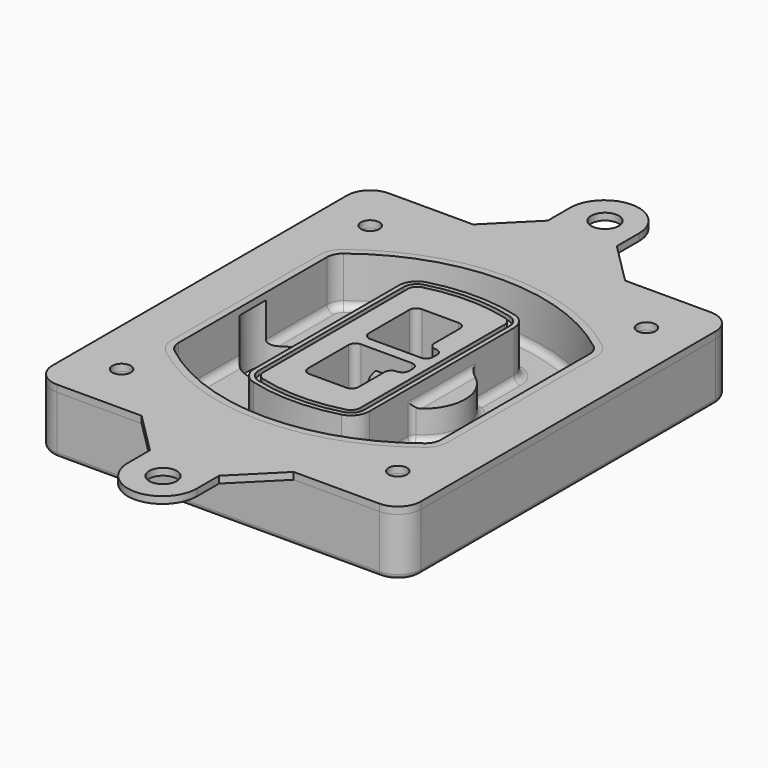
from build123d import *

# Parameters (mm, degrees)
F0_R      = 4
F1_DEPTH  = 25
F2_DEPTH  = 3
F3_DEPTH  = 18
F5_DEPTH  = 21
F6_DEPTH  = 2
F8_DEPTH  = 20
F9_DEPTH  = 16
F10_DEPTH = 25
F7_R      = 6
F7_R_2    = 4
F11_DEPTH = 6
F13_DEPTH = 9
F14_R     = 3
F15_R     = 2
F16_R     = 6
F16_R_2   = 4
F17_DEPTH = 3


with BuildPart() as f1:
    # F0 (on Top) → F1 (new body)
    with BuildSketch(Plane.XY):
        with BuildLine():
            ThreePointArc((-80, -80), (-77.0710678119, -87.0710678119), (-70, -90))
            Line((-70, -90), (70, -90))
            ThreePointArc((70, -90), (77.0710678119, -87.0710678119), (80, -80))
            Line((80, -80), (80, 80))
            ThreePointArc((80, 80), (77.0710678119, 87.0710678119), (70, 90))
            Line((70, 90), (-70, 90))
            ThreePointArc((-70, 90), (-77.0710678119, 87.0710678119), (-80, 80))
            Line((-80, 80), (-80, -80))
        make_face()
        with Locations((-60, -67.5)):
            Circle(F0_R, mode=Mode.SUBTRACT)
        with Locations((60, -67.5)):
            Circle(F0_R, mode=Mode.SUBTRACT)
        with Locations((-60, 67.5)):
            Circle(F0_R, mode=Mode.SUBTRACT)
        with BuildLine():
            ThreePointArc((-64, 40.2934422872), (-62.5820384798, 46.4328484224), (-58.6153846154, 51.3286200352))
            ThreePointArc((-58.6153846154, 51.3286200352), (0, 71.5), (58.6153846154, 51.3286200352))
            ThreePointArc((58.6153846154, 51.3286200352), (62.5820384798, 46.4328484224), (64, 40.2934422872))
            Line((64, 40.2934422872), (64, -40.2934422872))
            ThreePointArc((64, -40.2934422872), (62.5820384798, -46.4328484224), (58.6153846154, -51.3286200352))
            ThreePointArc((58.6153846154, -51.3286200352), (0, -71.5), (-58.6153846154, -51.3286200352))
            ThreePointArc((-58.6153846154, -51.3286200352), (-62.5820384798, -46.4328484224), (-64, -40.2934422872))
            Line((-64, -40.2934422872), (-64, 40.2934422872))
        make_face(mode=Mode.SUBTRACT)
        with Locations((60, 67.5)):
            Circle(F0_R, mode=Mode.SUBTRACT)
        with BuildLine():
            ThreePointArc((58.6153846154, 51.3286200352), (0, 71.5), (-58.6153846154, 51.3286200352))
            ThreePointArc((-58.6153846154, 51.3286200352), (-62.5820384798, 46.4328484224), (-64, 40.2934422872))
            Line((-64, 40.2934422872), (-64, -40.2934422872))
            ThreePointArc((-64, -40.2934422872), (-62.5820384798, -46.4328484224), (-58.6153846154, -51.3286200352))
            ThreePointArc((-58.6153846154, -51.3286200352), (0, -71.5), (58.6153846154, -51.3286200352))
            ThreePointArc((58.6153846154, -51.3286200352), (62.5820384798, -46.4328484224), (64, -40.2934422872))
            Line((64, -40.2934422872), (64, 40.2934422872))
            ThreePointArc((64, 40.2934422872), (62.5820384798, 46.4328484224), (58.6153846154, 51.3286200352))
        make_face()
        with BuildLine():
            Line((-60, -40.2934422872), (-60, 40.2934422872))
            ThreePointArc((-60, 40.2934422872), (-58.9871703427, 44.6787323838), (-56.1538461538, 48.1757121072))
            ThreePointArc((-56.1538461538, 48.1757121072), (0, 67.5), (56.1538461538, 48.1757121072))
            ThreePointArc((56.1538461538, 48.1757121072), (58.9871703427, 44.6787323838), (60, 40.2934422872))
            Line((60, 40.2934422872), (60, -40.2934422872))
            ThreePointArc((60, -40.2934422872), (58.9871703427, -44.6787323838), (56.1538461538, -48.1757121072))
            ThreePointArc((56.1538461538, -48.1757121072), (0, -67.5), (-56.1538461538, -48.1757121072))
            ThreePointArc((-56.1538461538, -48.1757121072), (-58.9871703427, -44.6787323838), (-60, -40.2934422872))
        make_face(mode=Mode.SUBTRACT)
        with BuildLine():
            ThreePointArc((-56.1538461538, 48.1757121072), (-58.9871703427, 44.6787323838), (-60, 40.2934422872))
            Line((-60, 40.2934422872), (-60, -40.2934422872))
            ThreePointArc((-60, -40.2934422872), (-58.9871703427, -44.6787323838), (-56.1538461538, -48.1757121072))
            ThreePointArc((-56.1538461538, -48.1757121072), (0, -67.5), (56.1538461538, -48.1757121072))
            ThreePointArc((56.1538461538, -48.1757121072), (58.9871703427, -44.6787323838), (60, -40.2934422872))
            Line((60, -40.2934422872), (60, 40.2934422872))
            ThreePointArc((60, 40.2934422872), (58.9871703427, 44.6787323838), (56.1538461538, 48.1757121072))
            ThreePointArc((56.1538461538, 48.1757121072), (0, 67.5), (-56.1538461538, 48.1757121072))
        make_face()
        with BuildLine():
            ThreePointArc((54.3076923077, 45.8110311612), (56.2910192399, 43.3631453548), (57, 40.2934422872))
            Line((57, 40.2934422872), (57, -40.2934422872))
            ThreePointArc((57, -40.2934422872), (56.2910192399, -43.3631453548), (54.3076923077, -45.8110311612))
            ThreePointArc((54.3076923077, -45.8110311612), (0, -64.5), (-54.3076923077, -45.8110311612))
            ThreePointArc((-54.3076923077, -45.8110311612), (-56.2910192399, -43.3631453548), (-57, -40.2934422872))
            Line((-57, -40.2934422872), (-57, 40.2934422872))
            ThreePointArc((-57, 40.2934422872), (-56.2910192399, 43.3631453548), (-54.3076923077, 45.8110311612))
            ThreePointArc((-54.3076923077, 45.8110311612), (0, 64.5), (54.3076923077, 45.8110311612))
        make_face(mode=Mode.SUBTRACT)
        with BuildLine():
            Line((57, -40.2934422872), (57, 40.2934422872))
            ThreePointArc((57, 40.2934422872), (56.2910192399, 43.3631453548), (54.3076923077, 45.8110311612))
            ThreePointArc((54.3076923077, 45.8110311612), (0, 64.5), (-54.3076923077, 45.8110311612))
            ThreePointArc((-54.3076923077, 45.8110311612), (-56.2910192399, 43.3631453548), (-57, 40.2934422872))
            Line((-57, 40.2934422872), (-57, -40.2934422872))
            ThreePointArc((-57, -40.2934422872), (-56.2910192399, -43.3631453548), (-54.3076923077, -45.8110311612))
            ThreePointArc((-54.3076923077, -45.8110311612), (0, -64.5), (54.3076923077, -45.8110311612))
            ThreePointArc((54.3076923077, -45.8110311612), (56.2910192399, -43.3631453548), (57, -40.2934422872))
        make_face()
    extrude(amount=-F1_DEPTH)

    # F0 (on Top) → F2 (join)
    with BuildSketch(Plane.XY):
        with BuildLine():
            ThreePointArc((-56.1538461538, 48.1757121072), (-58.9871703427, 44.6787323838), (-60, 40.2934422872))
            Line((-60, 40.2934422872), (-60, -40.2934422872))
            ThreePointArc((-60, -40.2934422872), (-58.9871703427, -44.6787323838), (-56.1538461538, -48.1757121072))
            ThreePointArc((-56.1538461538, -48.1757121072), (0, -67.5), (56.1538461538, -48.1757121072))
            ThreePointArc((56.1538461538, -48.1757121072), (58.9871703427, -44.6787323838), (60, -40.2934422872))
            Line((60, -40.2934422872), (60, 40.2934422872))
            ThreePointArc((60, 40.2934422872), (58.9871703427, 44.6787323838), (56.1538461538, 48.1757121072))
            ThreePointArc((56.1538461538, 48.1757121072), (0, 67.5), (-56.1538461538, 48.1757121072))
        make_face()
        with BuildLine():
            ThreePointArc((54.3076923077, 45.8110311612), (56.2910192399, 43.3631453548), (57, 40.2934422872))
            Line((57, 40.2934422872), (57, -40.2934422872))
            ThreePointArc((57, -40.2934422872), (56.2910192399, -43.3631453548), (54.3076923077, -45.8110311612))
            ThreePointArc((54.3076923077, -45.8110311612), (0, -64.5), (-54.3076923077, -45.8110311612))
            ThreePointArc((-54.3076923077, -45.8110311612), (-56.2910192399, -43.3631453548), (-57, -40.2934422872))
            Line((-57, -40.2934422872), (-57, 40.2934422872))
            ThreePointArc((-57, 40.2934422872), (-56.2910192399, 43.3631453548), (-54.3076923077, 45.8110311612))
            ThreePointArc((-54.3076923077, 45.8110311612), (0, 64.5), (54.3076923077, 45.8110311612))
        make_face(mode=Mode.SUBTRACT)
    extrude(amount=F2_DEPTH)

    # F0 (on Top) → F3 (cut)
    with BuildSketch(Plane.XY):
        with BuildLine():
            Line((57, -40.2934422872), (57, 40.2934422872))
            ThreePointArc((57, 40.2934422872), (56.2910192399, 43.3631453548), (54.3076923077, 45.8110311612))
            ThreePointArc((54.3076923077, 45.8110311612), (0, 64.5), (-54.3076923077, 45.8110311612))
            ThreePointArc((-54.3076923077, 45.8110311612), (-56.2910192399, 43.3631453548), (-57, 40.2934422872))
            Line((-57, 40.2934422872), (-57, -40.2934422872))
            ThreePointArc((-57, -40.2934422872), (-56.2910192399, -43.3631453548), (-54.3076923077, -45.8110311612))
            ThreePointArc((-54.3076923077, -45.8110311612), (0, -64.5), (54.3076923077, -45.8110311612))
            ThreePointArc((54.3076923077, -45.8110311612), (56.2910192399, -43.3631453548), (57, -40.2934422872))
        make_face()
    extrude(amount=-F3_DEPTH, mode=Mode.SUBTRACT)

    # F4 (on face) → F5 (join, through all)
    with BuildSketch(Plane.XY.offset(3)):
        with BuildLine():
            ThreePointArc((-25, -39.2465276821), (-23.3511545998, -44.1109737193), (-19.0842911877, -46.9702398883))
            ThreePointArc((-19.0842911877, -46.9702398883), (0, -49.5), (19.0842911877, -46.9702398883))
            ThreePointArc((19.0842911877, -46.9702398883), (23.3511545998, -44.1109737193), (25, -39.2465276821))
            Line((25, -39.2465276821), (25, 39.2465276821))
            ThreePointArc((25, 39.2465276821), (23.3511545998, 44.1109737193), (19.0842911877, 46.9702398883))
            ThreePointArc((19.0842911877, 46.9702398883), (0, 49.5), (-19.0842911877, 46.9702398883))
            ThreePointArc((-19.0842911877, 46.9702398883), (-23.3511545998, 44.1109737193), (-25, 39.2465276821))
            Line((-25, 39.2465276821), (-25, -39.2465276821))
        make_face()
        with BuildLine():
            ThreePointArc((18.5632183908, 45.0393118368), (21.7633659499, 42.89486221), (23, 39.2465276821))
            Line((23, 39.2465276821), (23, -39.2465276821))
            ThreePointArc((23, -39.2465276821), (21.7633659499, -42.89486221), (18.5632183908, -45.0393118368))
            ThreePointArc((18.5632183908, -45.0393118368), (0, -47.5), (-18.5632183908, -45.0393118368))
            ThreePointArc((-18.5632183908, -45.0393118368), (-21.7633659499, -42.89486221), (-23, -39.2465276821))
            Line((-23, -39.2465276821), (-23, 39.2465276821))
            ThreePointArc((-23, 39.2465276821), (-21.7633659499, 42.89486221), (-18.5632183908, 45.0393118368))
            ThreePointArc((-18.5632183908, 45.0393118368), (0, 47.5), (18.5632183908, 45.0393118368))
        make_face(mode=Mode.SUBTRACT)
        with BuildLine():
            Line((23, -39.2465276821), (23, 39.2465276821))
            ThreePointArc((23, 39.2465276821), (21.7633659499, 42.89486221), (18.5632183908, 45.0393118368))
            ThreePointArc((18.5632183908, 45.0393118368), (0, 47.5), (-18.5632183908, 45.0393118368))
            ThreePointArc((-18.5632183908, 45.0393118368), (-21.7633659499, 42.89486221), (-23, 39.2465276821))
            Line((-23, 39.2465276821), (-23, -39.2465276821))
            ThreePointArc((-23, -39.2465276821), (-21.7633659499, -42.89486221), (-18.5632183908, -45.0393118368))
            ThreePointArc((-18.5632183908, -45.0393118368), (0, -47.5), (18.5632183908, -45.0393118368))
            ThreePointArc((18.5632183908, -45.0393118368), (21.7633659499, -42.89486221), (23, -39.2465276821))
        make_face()
        with BuildLine():
            ThreePointArc((18.0421455939, 43.1083837852), (20.1755772999, 41.6787507007), (21, 39.2465276821))
            Line((21, 39.2465276821), (21, -39.2465276821))
            ThreePointArc((21, -39.2465276821), (20.1755772999, -41.6787507007), (18.0421455939, -43.1083837852))
            ThreePointArc((18.0421455939, -43.1083837852), (0, -45.5), (-18.0421455939, -43.1083837852))
            ThreePointArc((-18.0421455939, -43.1083837852), (-20.1755772999, -41.6787507007), (-21, -39.2465276821))
            Line((-21, -39.2465276821), (-21, 39.2465276821))
            ThreePointArc((-21, 39.2465276821), (-20.1755772999, 41.6787507007), (-18.0421455939, 43.1083837852))
            ThreePointArc((-18.0421455939, 43.1083837852), (0, 45.5), (18.0421455939, 43.1083837852))
        make_face(mode=Mode.SUBTRACT)
        with BuildLine():
            Line((21, -39.2465276821), (21, 39.2465276821))
            ThreePointArc((21, 39.2465276821), (20.1755772999, 41.6787507007), (18.0421455939, 43.1083837852))
            ThreePointArc((18.0421455939, 43.1083837852), (0, 45.5), (-18.0421455939, 43.1083837852))
            ThreePointArc((-18.0421455939, 43.1083837852), (-20.1755772999, 41.6787507007), (-21, 39.2465276821))
            Line((-21, 39.2465276821), (-21, -39.2465276821))
            ThreePointArc((-21, -39.2465276821), (-20.1755772999, -41.6787507007), (-18.0421455939, -43.1083837852))
            ThreePointArc((-18.0421455939, -43.1083837852), (0, -45.5), (18.0421455939, -43.1083837852))
            ThreePointArc((18.0421455939, -43.1083837852), (20.1755772999, -41.6787507007), (21, -39.2465276821))
        make_face()
        with BuildLine():
            Line((-8, -2.5), (14, -2.5))
            ThreePointArc((14, -2.5), (16.1213203436, -3.3786796564), (17, -5.5))
            Line((17, -5.5), (17, -7.5))
            ThreePointArc((17, -7.5), (16.1213203436, -9.6213203436), (14, -10.5))
            ThreePointArc((14, -10.5), (11.8786796564, -11.3786796564), (11, -13.5))
            Line((11, -13.5), (11, -27.5))
            ThreePointArc((11, -27.5), (10.1213203436, -29.6213203436), (8, -30.5))
            Line((8, -30.5), (-8, -30.5))
            ThreePointArc((-8, -30.5), (-10.1213203436, -29.6213203436), (-11, -27.5))
            Line((-11, -27.5), (-11, -5.5))
            ThreePointArc((-11, -5.5), (-10.1213203436, -3.3786796564), (-8, -2.5))
        make_face(mode=Mode.SUBTRACT)
        with BuildLine():
            ThreePointArc((-8, 2.5), (-10.1213203436, 3.3786796564), (-11, 5.5))
            Line((-11, 5.5), (-11, 27.5))
            ThreePointArc((-11, 27.5), (-10.1213203436, 29.6213203436), (-8, 30.5))
            Line((-8, 30.5), (8, 30.5))
            ThreePointArc((8, 30.5), (10.1213203436, 29.6213203436), (11, 27.5))
            Line((11, 27.5), (11, 13.5))
            ThreePointArc((11, 13.5), (11.8786796564, 11.3786796564), (14, 10.5))
            ThreePointArc((14, 10.5), (16.1213203436, 9.6213203436), (17, 7.5))
            Line((17, 7.5), (17, 5.5))
            ThreePointArc((17, 5.5), (16.1213203436, 3.3786796564), (14, 2.5))
            Line((14, 2.5), (-8, 2.5))
        make_face(mode=Mode.SUBTRACT)
    extrude(amount=-F5_DEPTH)

    # F4 (on face) → F6 (cut)
    with BuildSketch(Plane.XY.offset(3)):
        with BuildLine():
            Line((23, -39.2465276821), (23, 39.2465276821))
            ThreePointArc((23, 39.2465276821), (21.7633659499, 42.89486221), (18.5632183908, 45.0393118368))
            ThreePointArc((18.5632183908, 45.0393118368), (0, 47.5), (-18.5632183908, 45.0393118368))
            ThreePointArc((-18.5632183908, 45.0393118368), (-21.7633659499, 42.89486221), (-23, 39.2465276821))
            Line((-23, 39.2465276821), (-23, -39.2465276821))
            ThreePointArc((-23, -39.2465276821), (-21.7633659499, -42.89486221), (-18.5632183908, -45.0393118368))
            ThreePointArc((-18.5632183908, -45.0393118368), (0, -47.5), (18.5632183908, -45.0393118368))
            ThreePointArc((18.5632183908, -45.0393118368), (21.7633659499, -42.89486221), (23, -39.2465276821))
        make_face()
        with BuildLine():
            ThreePointArc((18.0421455939, 43.1083837852), (20.1755772999, 41.6787507007), (21, 39.2465276821))
            Line((21, 39.2465276821), (21, -39.2465276821))
            ThreePointArc((21, -39.2465276821), (20.1755772999, -41.6787507007), (18.0421455939, -43.1083837852))
            ThreePointArc((18.0421455939, -43.1083837852), (0, -45.5), (-18.0421455939, -43.1083837852))
            ThreePointArc((-18.0421455939, -43.1083837852), (-20.1755772999, -41.6787507007), (-21, -39.2465276821))
            Line((-21, -39.2465276821), (-21, 39.2465276821))
            ThreePointArc((-21, 39.2465276821), (-20.1755772999, 41.6787507007), (-18.0421455939, 43.1083837852))
            ThreePointArc((-18.0421455939, 43.1083837852), (0, 45.5), (18.0421455939, 43.1083837852))
        make_face(mode=Mode.SUBTRACT)
    extrude(amount=-F6_DEPTH, mode=Mode.SUBTRACT)

    # F7 (on face) → F8 (join)
    with BuildSketch(Plane(origin=(0, 0, -25), x_dir=(1, 0, 0), z_dir=(0, 0, -1))):
        with BuildLine():
            ThreePointArc((3.28842436, 0), (16.7567035675, 13.4682792075), (30.224982775, 0))
            Line((30.224982775, 0), (35.224982775, 0))
            ThreePointArc((35.224982775, 0), (16.7567035675, 18.4682792075), (-1.71157564, 0))
            Line((-1.71157564, 0), (3.28842436, 0))
        make_face()
        with BuildLine():
            Line((3.28842436, 0), (30.224982775, 0))
            ThreePointArc((30.224982775, 0), (16.7567035675, 13.4682792075), (3.28842436, 0))
        make_face()
        with BuildLine():
            ThreePointArc((3.28842436, 0), (16.7567035675, -13.4682792075), (30.224982775, 0))
            Line((30.224982775, 0), (3.28842436, 0))
        make_face()
        with BuildLine():
            Line((35.224982775, 0), (30.224982775, 0))
            ThreePointArc((30.224982775, 0), (16.7567035675, -13.4682792075), (3.28842436, 0))
            Line((3.28842436, 0), (-1.71157564, 0))
            ThreePointArc((-1.71157564, 0), (16.7567035675, -18.4682792075), (35.224982775, 0))
        make_face()
    extrude(amount=-F8_DEPTH)

    # F7 (on face) → F9 (cut)
    with BuildSketch(Plane(origin=(0, 0, -25), x_dir=(1, 0, 0), z_dir=(0, 0, -1))):
        with BuildLine():
            Line((3.28842436, 0), (30.224982775, 0))
            ThreePointArc((30.224982775, 0), (16.7567035675, 13.4682792075), (3.28842436, 0))
        make_face()
        with BuildLine():
            ThreePointArc((3.28842436, 0), (16.7567035675, -13.4682792075), (30.224982775, 0))
            Line((30.224982775, 0), (3.28842436, 0))
        make_face()
    extrude(amount=-F9_DEPTH, mode=Mode.SUBTRACT)

    # F7 (on face) → F10 (cut)
    with BuildSketch(Plane(origin=(0, 0, -25), x_dir=(1, 0, 0), z_dir=(0, 0, -1))):
        with BuildLine():
            Line((-59.0318229325, 0), (-32.0952645175, 0))
            ThreePointArc((-32.0952645175, 0), (-45.563543725, 13.4682792075), (-59.0318229325, 0))
        make_face()
        with BuildLine():
            ThreePointArc((-59.0318229325, 0), (-45.563543725, -13.4682792075), (-32.0952645175, 0))
            Line((-32.0952645175, 0), (-59.0318229325, 0))
        make_face()
    extrude(amount=-F10_DEPTH, mode=Mode.SUBTRACT)

    # F7 (on face) → F11 (cut)
    with BuildSketch(Plane(origin=(0, 0, -25), x_dir=(1, 0, 0), z_dir=(0, 0, -1))):
        with Locations((60, -67.5)):
            Circle(F7_R)
        with Locations((60, -67.5)):
            Circle(F7_R_2, mode=Mode.SUBTRACT)
        with Locations((60, -67.5)):
            Circle(F7_R)
        with Locations((60, -67.5)):
            Circle(F7_R_2, mode=Mode.SUBTRACT)
        with Locations((-60, -67.5)):
            Circle(F7_R)
        with Locations((-60, -67.5)):
            Circle(F7_R_2, mode=Mode.SUBTRACT)
        with Locations((-60, -67.5)):
            Circle(F7_R)
        with Locations((-60, -67.5)):
            Circle(F7_R_2, mode=Mode.SUBTRACT)
        with Locations((-60, 67.5)):
            Circle(F7_R)
        with Locations((-60, 67.5)):
            Circle(F7_R_2, mode=Mode.SUBTRACT)
        with Locations((-60, 67.5)):
            Circle(F7_R)
        with Locations((-60, 67.5)):
            Circle(F7_R_2, mode=Mode.SUBTRACT)
        with Locations((60, 67.5)):
            Circle(F7_R)
        with Locations((60, 67.5)):
            Circle(F7_R_2, mode=Mode.SUBTRACT)
        with Locations((60, 67.5)):
            Circle(F7_R)
        with Locations((60, 67.5)):
            Circle(F7_R_2, mode=Mode.SUBTRACT)
    extrude(amount=-F11_DEPTH, mode=Mode.SUBTRACT)

    # F12 (on face) → F13 (cut, through all)
    with BuildSketch(Plane(origin=(0, 0, -9), x_dir=(1, 0, 0), z_dir=(0, 0, -1))):
        with BuildLine():
            Line((11, 13.5), (11, 17.5481537753))
            ThreePointArc((11, 17.5481537753), (2.5696536419, 11.8239143813), (-1.5415842455, 2.5))
            Line((-1.5415842455, 2.5), (3.5224848595, 2.5))
            ThreePointArc((3.5224848595, 2.5), (6.1857188154, 8.3455872281), (11.2536447004, 12.2927168648))
            ThreePointArc((11.2536447004, 12.2927168648), (11.0640958889, 12.8831798879), (11, 13.5))
        make_face()
        with BuildLine():
            ThreePointArc((11.2536447004, -12.2927168648), (6.1857188154, -8.3455872281), (3.5224848595, -2.5))
            Line((3.5224848595, -2.5), (-1.5415842455, -2.5))
            ThreePointArc((-1.5415842455, -2.5), (2.5696536419, -11.8239143813), (11, -17.5481537753))
            Line((11, -17.5481537753), (11, -13.5))
            ThreePointArc((11, -13.5), (11.0640958889, -12.8831798879), (11.2536447004, -12.2927168648))
        make_face()
        with BuildLine():
            ThreePointArc((11.2536447004, 12.2927168648), (6.1857188154, 8.3455872281), (3.5224848595, 2.5))
            Line((3.5224848595, 2.5), (14, 2.5))
            ThreePointArc((14, 2.5), (16.1213203436, 3.3786796564), (17, 5.5))
            Line((17, 5.5), (17, 7.5))
            ThreePointArc((17, 7.5), (16.1213203436, 9.6213203436), (14, 10.5))
            ThreePointArc((14, 10.5), (12.3601599782, 10.9878446101), (11.2536447004, 12.2927168648))
        make_face()
        with BuildLine():
            Line((14, -2.5), (3.5224848595, -2.5))
            ThreePointArc((3.5224848595, -2.5), (6.1857188154, -8.3455872281), (11.2536447004, -12.2927168648))
            ThreePointArc((11.2536447004, -12.2927168648), (12.3601599782, -10.9878446101), (14, -10.5))
            ThreePointArc((14, -10.5), (16.1213203436, -9.6213203436), (17, -7.5))
            Line((17, -7.5), (17, -5.5))
            ThreePointArc((17, -5.5), (16.1213203436, -3.3786796564), (14, -2.5))
        make_face()
    extrude(amount=F13_DEPTH, mode=Mode.SUBTRACT)

    # F14
    f14_edges = [f1.edges().sort_by_distance(p)[0] for p in [
        (-57, -23.703476, -18),
        (-57, 23.703476, -18),
        (25, 0, -5),
        (25, 16.526506, -11.5),
        (25, -16.526506, -11.5),
        (25, -27.886517, -18),
        (35.224983, 0, -18),
    ]]
    fillet(f14_edges, radius=F14_R)

    # F15
    f15_edges = [f1.edges().sort_by_distance(p)[0] for p in [
        (0, -90, -25),
    ]]
    fillet(f15_edges, radius=F15_R)


with BuildPart() as f17:
    # F16 (on face) → F17 (new body, through all)
    with BuildSketch(Plane.XY):
        with BuildLine():
            Line((-15.2722892538, 108), (-33.2722892538, 90))
            Line((-33.2722892538, 90), (32.7277107462, 90))
            Line((32.7277107462, 90), (14.7277107462, 108))
            Line((14.7277107462, 108), (14.7277107462, 120))
            ThreePointArc((14.7277107462, 120), (-0.2722892538, 135), (-15.2722892538, 120))
            Line((-15.2722892538, 120), (-15.2722892538, 108))
        make_face()
        with Locations((0, 120)):
            Circle(F16_R, mode=Mode.SUBTRACT)
        with BuildLine():
            Line((-33.2722892538, 90), (-70, 90))
            ThreePointArc((-70, 90), (-77.0710678119, 87.0710678119), (-80, 80))
            Line((-80, 80), (-80, -80))
            ThreePointArc((-80, -80), (-77.0710678119, -87.0710678119), (-70, -90))
            Line((-70, -90), (-33.2722892538, -90))
            Line((-33.2722892538, -90), (32.7277107462, -90))
            Line((32.7277107462, -90), (70, -90))
            ThreePointArc((70, -90), (77.0710678119, -87.0710678119), (80, -80))
            Line((80, -80), (80, 80))
            ThreePointArc((80, 80), (77.0710678119, 87.0710678119), (70, 90))
            Line((70, 90), (32.7277107462, 90))
            Line((32.7277107462, 90), (-33.2722892538, 90))
        make_face()
        with Locations((-60, -67.5)):
            Circle(F16_R_2, mode=Mode.SUBTRACT)
        with Locations((60, -67.5)):
            Circle(F16_R_2, mode=Mode.SUBTRACT)
        with Locations((-60, 67.5)):
            Circle(F16_R_2, mode=Mode.SUBTRACT)
        with BuildLine():
            ThreePointArc((-60, 40.2934422872), (-58.9871703427, 44.6787323838), (-56.1538461538, 48.1757121072))
            ThreePointArc((-56.1538461538, 48.1757121072), (0, 67.5), (56.1538461538, 48.1757121072))
            ThreePointArc((56.1538461538, 48.1757121072), (58.9871703427, 44.6787323838), (60, 40.2934422872))
            Line((60, 40.2934422872), (60, -40.2934422872))
            ThreePointArc((60, -40.2934422872), (58.9871703427, -44.6787323838), (56.1538461538, -48.1757121072))
            ThreePointArc((56.1538461538, -48.1757121072), (0, -67.5), (-56.1538461538, -48.1757121072))
            ThreePointArc((-56.1538461538, -48.1757121072), (-58.9871703427, -44.6787323838), (-60, -40.2934422872))
            Line((-60, -40.2934422872), (-60, 40.2934422872))
        make_face(mode=Mode.SUBTRACT)
        with Locations((60, 67.5)):
            Circle(F16_R_2, mode=Mode.SUBTRACT)
        with BuildLine():
            Line((32.7277107462, -90), (-33.2722892538, -90))
            Line((-33.2722892538, -90), (-15.2722892538, -108))
            Line((-15.2722892538, -108), (-15.2722892538, -120))
            ThreePointArc((-15.2722892538, -120), (-0.2722892538, -135), (14.7277107462, -120))
            Line((14.7277107462, -120), (14.7277107462, -108))
            Line((14.7277107462, -108), (32.7277107462, -90))
        make_face()
        with Locations((0, -120)):
            Circle(F16_R, mode=Mode.SUBTRACT)
    extrude(amount=F17_DEPTH)


solid = Compound([f1.part, f17.part])
